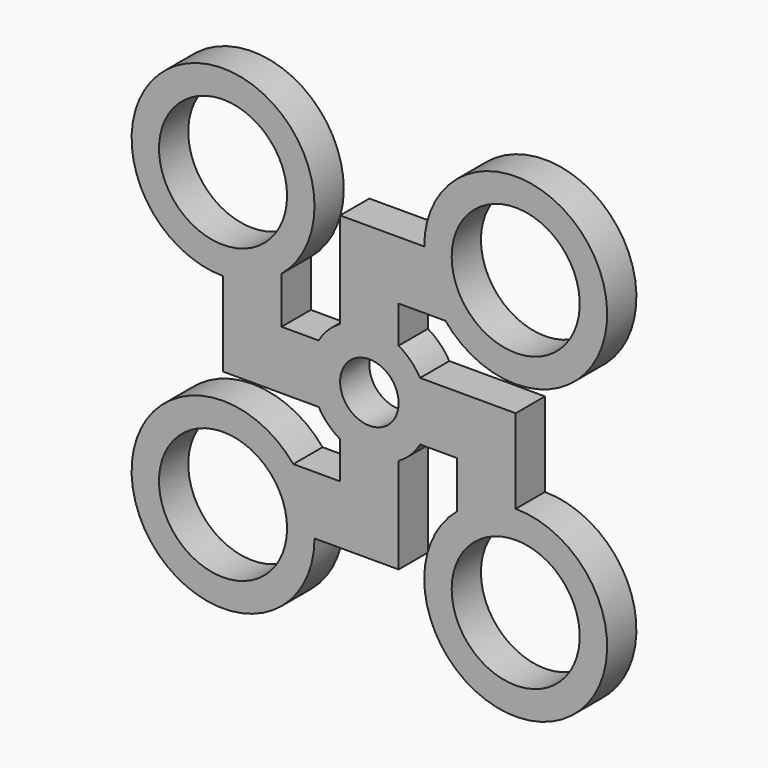
from build123d import *

# Parameters (mm, degrees)
F0_W     = 10.16
F0_H     = 20.32
F0_W_2   = 20.32
F0_H_2   = 10.16
F1_DEPTH = 6.35
F2_R     = 15.875
F3_DEPTH = 6.35
F4_R     = 11.1125
F5_DEPTH = 6.351
F6_R     = 10.16
F7_DEPTH = 6.35
F8_R     = 5.08
F9_DEPTH = 6.351


with BuildPart() as f1:
    # F0 (on Front) → F1 (new body)
    with BuildSketch(Plane.XZ):
        with Locations((20.32, -15.24)):
            Rectangle(F0_W, F0_H)
        Polygon((15.24, -5.08), (25.4, -5.08), (25.4, 5.08), (5.08, 5.08), (5.08, -5.08), align=None)
        Polygon((5.08, -25.4), (5.08, -5.08), (-5.08, -5.08), (-5.08, -15.24), (-5.08, -25.4), align=None)
        Polygon((-5.08, 5.08), (5.08, 5.08), (5.08, 15.24), (5.08, 25.4), (-5.08, 25.4), align=None)
        Polygon((-25.4, -5.08), (-5.08, -5.08), (-5.08, 5.08), (-15.24, 5.08), (-25.4, 5.08), align=None)
        with Locations((15.24, 20.32)):
            Rectangle(F0_W_2, F0_H_2)
        with Locations((-15.24, -20.32)):
            Rectangle(F0_W_2, F0_H_2)
        with Locations((-20.32, 15.24)):
            Rectangle(F0_W, F0_H)
    extrude(amount=F1_DEPTH)

    # F2 (on Front) → F3 (join)
    with BuildSketch(Plane.XZ):
        with Locations((-25.4, 25.4)):
            Circle(F2_R)
        with BuildLine():
            ThreePointArc((41.275, 25.4), (25.4, 41.275), (9.525, 25.4))
            ThreePointArc((9.525, 25.4), (25.4, 9.525), (41.275, 25.4))
        make_face()
        with BuildLine():
            ThreePointArc((41.275, -25.4), (25.4, -9.525), (9.525, -25.4))
            ThreePointArc((9.525, -25.4), (25.4, -41.275), (41.275, -25.4))
        make_face()
        with Locations((-25.4, -25.4)):
            Circle(F2_R)
    extrude(amount=F3_DEPTH)

    # F4 (on Front) → F5 (cut, through all)
    with BuildSketch(Plane.XZ):
        with Locations((-25.4, 25.4)):
            Circle(F4_R)
        with BuildLine():
            ThreePointArc((36.5125, 25.4), (25.4, 36.5125), (14.2875, 25.4))
            ThreePointArc((14.2875, 25.4), (25.4, 14.2875), (36.5125, 25.4))
        make_face()
        with BuildLine():
            ThreePointArc((36.5125, -25.4), (25.4, -14.2875), (14.2875, -25.4))
            ThreePointArc((14.2875, -25.4), (25.4, -36.5125), (36.5125, -25.4))
        make_face()
        with Locations((-25.4, -25.4)):
            Circle(F4_R)
    extrude(amount=F5_DEPTH, mode=Mode.SUBTRACT)

    # F6 (on Front) → F7 (join)
    with BuildSketch(Plane.XZ):
        Circle(F6_R)
    extrude(amount=F7_DEPTH)

    # F8 (on Front) → F9 (cut, through all)
    with BuildSketch(Plane.XZ):
        Circle(F8_R)
    extrude(amount=F9_DEPTH, mode=Mode.SUBTRACT)


solid = f1.part
